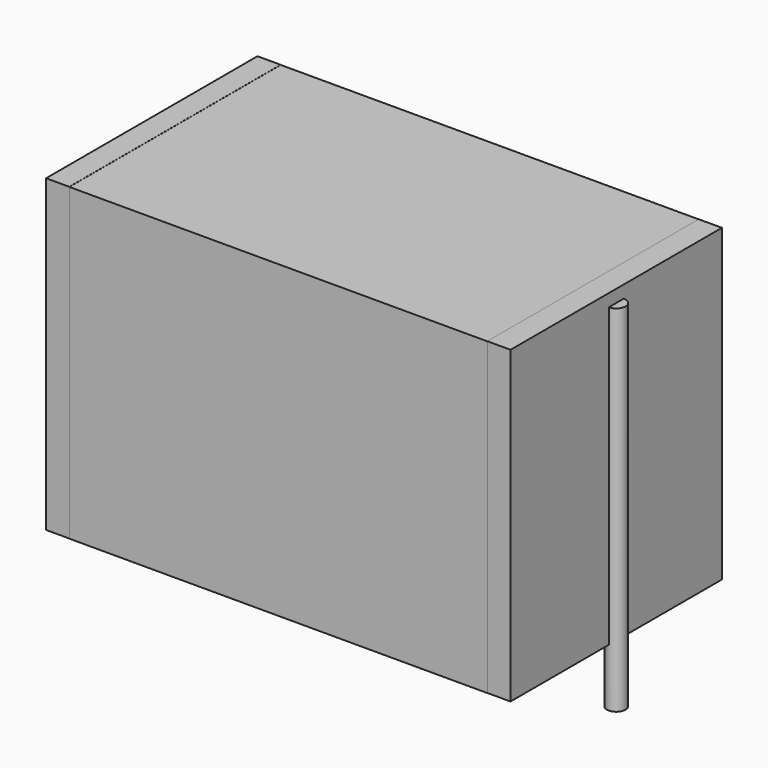
from build123d import *

# Parameters (mm, degrees)
SKETCH_W          = 20.25
SKETCH_H          = 12.8
PAD_DEPTH         = 15
SKETCH001_R       = 0.45
PAD001_DEPTH      = 14
PAD001_DEPTH_BACK = 3.2
SKETCH002_W       = 1.125
SKETCH002_H       = 12.8
PAD002_DEPTH      = 15


with BuildPart() as pad:
    # Sketch → Pad (new body)
    with BuildSketch(Plane.XY.offset(0.1)):
        with Locations((11.25, 0)):
            Rectangle(SKETCH_W, SKETCH_H)
    extrude(amount=PAD_DEPTH)


with BuildPart() as pad001:
    # Sketch001 → Pad001 (new body, two sides)
    with BuildSketch(Plane.XY.offset(0.5)) as pad001_sk:
        Circle(SKETCH001_R)
        with Locations((22.5, 0)):
            Circle(SKETCH001_R)
    extrude(amount=PAD001_DEPTH)
    extrude(pad001_sk.sketch, amount=-PAD001_DEPTH_BACK)


with BuildPart() as pad002:
    # Sketch002 → Pad002 (new body)
    with BuildSketch(Plane.XY.offset(0.105)):
        with Locations((0.5625, 0)):
            Rectangle(SKETCH002_W, SKETCH002_H)
        with Locations((21.9375, 0)):
            Rectangle(SKETCH002_W, SKETCH002_H)
    extrude(amount=PAD002_DEPTH)


solid = Compound([pad.part, pad001.part, pad002.part])
